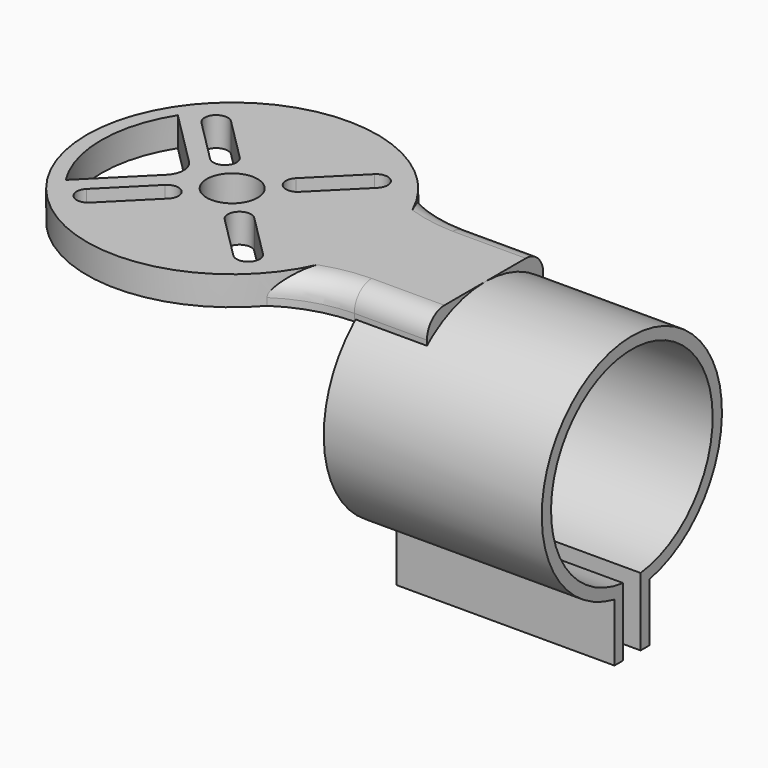
from build123d import *

# Parameters (mm, degrees)
EXTRUDE002_DEPTH = 30
EXTRUDE003_DEPTH = 10
SKETCH_R         = 3.5
EXTRUDE_DEPTH    = 4
FILLET_R         = 3


with BuildPart() as bracket_cylinder:
    # Sketch001 → Extrude002 (new body)
    with BuildSketch(Plane.YZ.offset(25)):
        with BuildLine():
            ThreePointArc((3, -26.706906), (0, 4), (-3, -26.706906))
            Line((-3, -26.706906), (-3, -34.706906))
            Line((-3, -34.706906), (-1.5, -34.706906))
            Line((-1.5, -34.706906), (-1.5, -25.318828))
            ThreePointArc((1.5, -25.318828), (0, 2.4), (-1.5, -25.318828))
            Line((1.5, -34.706906), (1.5, -25.318828))
            Line((3, -34.706906), (1.5, -34.706906))
            Line((3, -26.706906), (3, -34.706906))
        make_face()
    extrude(amount=EXTRUDE002_DEPTH)


with BuildPart() as extrude003:
    # Sketch002 → Extrude003 (new body)
    with BuildSketch(Plane.YZ.offset(34.801316)):
        with BuildLine():
            ThreePointArc((9.396876, -1.257504), (0, 2.4), (-9.396876, -1.257504))
            Line((-9.396876, -1.257504), (9.396876, -1.257504))
        make_face()
    extrude(amount=-EXTRUDE003_DEPTH)


with BuildPart() as fillet_body:
    # Sketch → Extrude (new body)
    with BuildSketch(Plane.XY):
        with BuildLine():
            ThreePointArc((15.198684, 13), (-20, 0), (15.198684, -13))
            ThreePointArc((24.801316, -10), (19.786149, -10.815491), (15.198684, -13))
            Line((34.801316, -10), (24.801316, -10))
            Line((34.801316, 10), (34.801316, -10))
            Line((24.801316, 10), (34.801316, 10))
            ThreePointArc((15.198684, 13), (19.786149, 10.815491), (24.801316, 10))
        make_face()
        Circle(SKETCH_R, mode=Mode.SUBTRACT)
        with BuildLine():
            ThreePointArc((3.868629, 6.131371), (3.868629, 3.868629), (6.131371, 3.868629))
            Line((6.131371, 3.868629), (12.131371, 9.868629))
            ThreePointArc((12.131371, 9.868629), (12.131371, 12.131371), (9.868629, 12.131371))
            Line((3.868629, 6.131371), (9.868629, 12.131371))
        make_face(mode=Mode.SUBTRACT)
        with BuildLine():
            ThreePointArc((-6.131371, 3.868629), (-3.868629, 3.868629), (-3.868629, 6.131371))
            Line((-3.868629, 6.131371), (-9.868629, 12.131371))
            ThreePointArc((-9.868629, 12.131371), (-12.131371, 12.131371), (-12.131371, 9.868629))
            Line((-6.131371, 3.868629), (-12.131371, 9.868629))
        make_face(mode=Mode.SUBTRACT)
        with BuildLine():
            ThreePointArc((-3.868629, -6.131371), (-3.868629, -3.868629), (-6.131371, -3.868629))
            Line((-6.131371, -3.868629), (-12.131371, -9.868629))
            ThreePointArc((-12.131371, -9.868629), (-12.131371, -12.131371), (-9.868629, -12.131371))
            Line((-3.868629, -6.131371), (-9.868629, -12.131371))
        make_face(mode=Mode.SUBTRACT)
        with BuildLine():
            ThreePointArc((6.131371, -3.868629), (3.868629, -3.868629), (3.868629, -6.131371))
            Line((3.868629, -6.131371), (9.868629, -12.131371))
            ThreePointArc((9.868629, -12.131371), (12.131371, -12.131371), (12.131371, -9.868629))
            Line((6.131371, -3.868629), (12.131371, -9.868629))
        make_face(mode=Mode.SUBTRACT)
        with BuildLine():
            Line((-15.198684, 9.643651), (-7.5, 1.944967))
            ThreePointArc((-7.5, -1.944967), (-6.694368, 0), (-7.5, 1.944967))
            Line((-15.198684, -9.643651), (-7.5, -1.944967))
            ThreePointArc((-15.198684, 9.643651), (-18, 0), (-15.198684, -9.643651))
        make_face(mode=Mode.SUBTRACT)
    extrude(amount=EXTRUDE_DEPTH)

    # Cut: cut Extrude003
    add(extrude003.part, mode=Mode.SUBTRACT)

    # Fillet
    fillet_edges = [fillet_body.edges().sort_by_distance(p)[0] for p in [
        (29.801316, -10, 4),
        (29.801316, 10, 4),
    ]]
    fillet(fillet_edges, radius=FILLET_R)


solid = Compound([bracket_cylinder.part, fillet_body.part])
